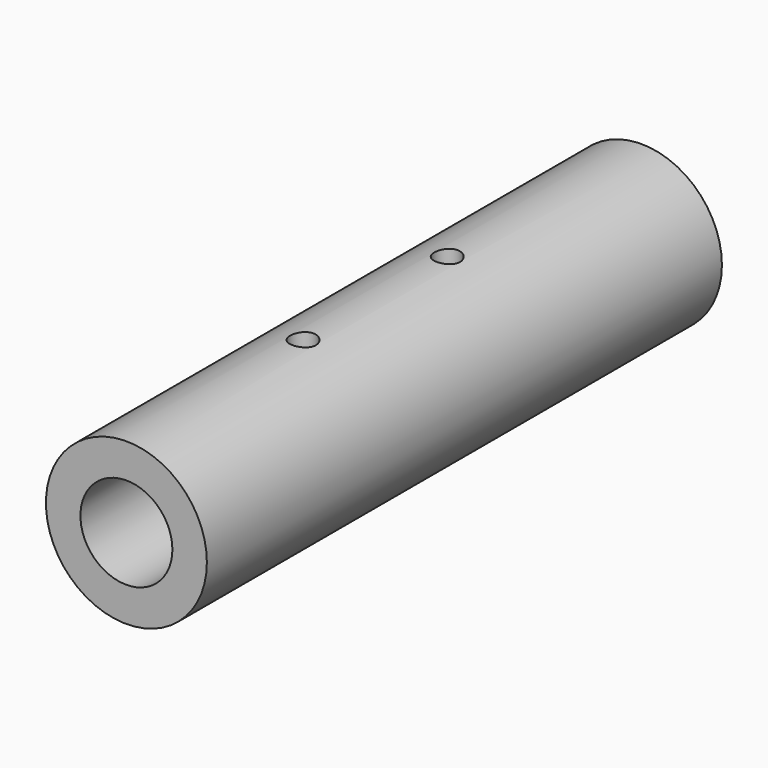
from build123d import *

# Parameters (mm, degrees)
F0_R     = 11.1125
F1_DEPTH = 44.45
F2_R     = 6.35
F3_DEPTH = 88.9
F5_R     = 1.778
F6_DEPTH = 44.45
F4_R     = 1.778
F7_DEPTH = 44.45


with BuildPart() as f1:
    # F0 (on Front) → F1 (new body, symmetric)
    with BuildSketch(Plane.XZ):
        Circle(F0_R)
    extrude(amount=F1_DEPTH, both=True)

    # F2 (on face) → F3 (cut)
    with BuildSketch(Plane.XZ.offset(44.45)):
        Circle(F2_R)
    extrude(amount=-F3_DEPTH, mode=Mode.SUBTRACT)

    # F5 (on Top) → F6 (cut, symmetric)
    with BuildSketch(Plane.XY):
        with Locations((0, 10.922)):
            Circle(F5_R)
    extrude(amount=F6_DEPTH, both=True, mode=Mode.SUBTRACT)

    # F4 (on Top) → F7 (cut, symmetric)
    with BuildSketch(Plane.XY):
        with Locations((0, -13.97)):
            Circle(F4_R)
    extrude(amount=F7_DEPTH, both=True, mode=Mode.SUBTRACT)


solid = f1.part
